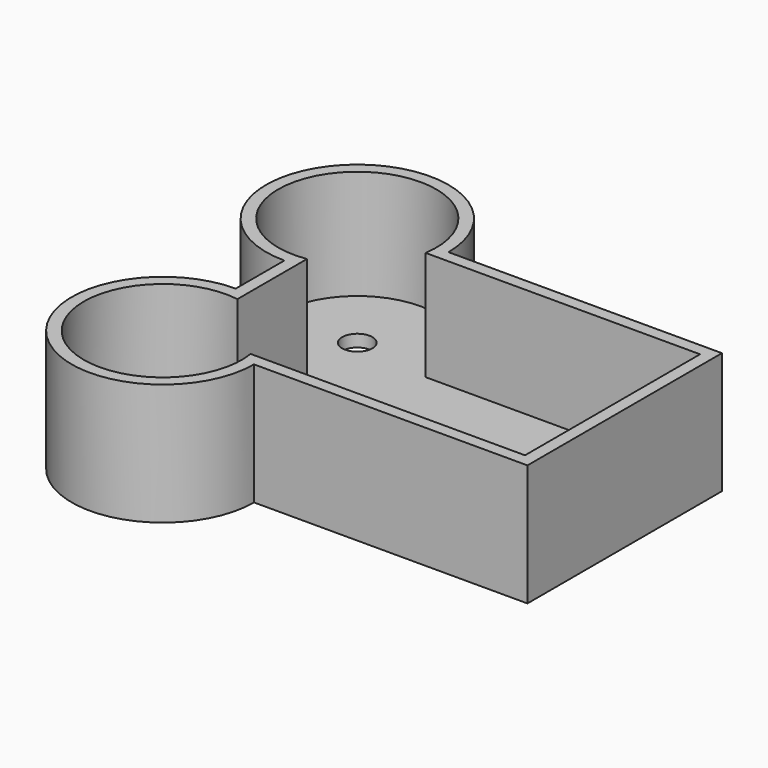
from build123d import *

# Parameters (mm, degrees)
F1_DEPTH = 25.4
F2_T     = -2.54
F4_D     = 6.35


with BuildPart() as f1:
    # F0 (on Top) → F1 (new body)
    with BuildSketch(Plane.XY):
        with BuildLine():
            Line((42.0402561671, 28.8117545512), (-15.1097438329, 28.8117545512))
            ThreePointArc((-15.1097438329, 28.8117545512), (-20.6893596513, 15.3413703696), (-34.1597438329, 9.7617545512))
            Line((-34.1597438329, 9.7617545512), (-34.1597438329, -2.9382454488))
            ThreePointArc((-34.1597438329, -2.9382454488), (-20.6893596513, -8.5178612672), (-15.1097438329, -21.9882454488))
            Line((-15.1097438329, -21.9882454488), (42.0402561671, -21.9882454488))
            Line((42.0402561671, -21.9882454488), (42.0402561671, 28.8117545512))
        make_face()
        with BuildLine():
            ThreePointArc((-15.1097438329, -21.9882454488), (-20.6893596513, -8.5178612672), (-34.1597438329, -2.9382454488))
            Line((-34.1597438329, -2.9382454488), (-34.1597438329, -21.9882454488))
            Line((-34.1597438329, -21.9882454488), (-15.1097438329, -21.9882454488))
        make_face()
        with BuildLine():
            Line((-34.1597438329, -21.9882454488), (-34.1597438329, -2.9382454488))
            ThreePointArc((-34.1597438329, -2.9382454488), (-47.6301280145, -35.4586296304), (-15.1097438329, -21.9882454488))
            Line((-15.1097438329, -21.9882454488), (-34.1597438329, -21.9882454488))
        make_face()
        with BuildLine():
            Line((-34.1597438329, 9.7617545512), (-34.1597438329, 28.8117545512))
            Line((-34.1597438329, 28.8117545512), (-15.1097438329, 28.8117545512))
            ThreePointArc((-15.1097438329, 28.8117545512), (-47.6301280145, 42.2821387328), (-34.1597438329, 9.7617545512))
        make_face()
        with BuildLine():
            Line((-15.1097438329, 28.8117545512), (-34.1597438329, 28.8117545512))
            Line((-34.1597438329, 28.8117545512), (-34.1597438329, 9.7617545512))
            ThreePointArc((-34.1597438329, 9.7617545512), (-20.6893596513, 15.3413703696), (-15.1097438329, 28.8117545512))
        make_face()
    extrude(amount=F1_DEPTH)

    # F2
    f2_openings = [f1.faces().sort_by_distance(p)[0] for p in [
        (-8.559993, 3.411755, 25.4),
    ]]
    offset(amount=F2_T, openings=f2_openings, kind=Kind.INTERSECTION)

    # F4 (through all)
    with Locations(Plane.XY.offset(2.54)):
        with Locations((-34.1597438329, 28.8117545512)):
            Hole(F4_D / 2)


solid = f1.part
